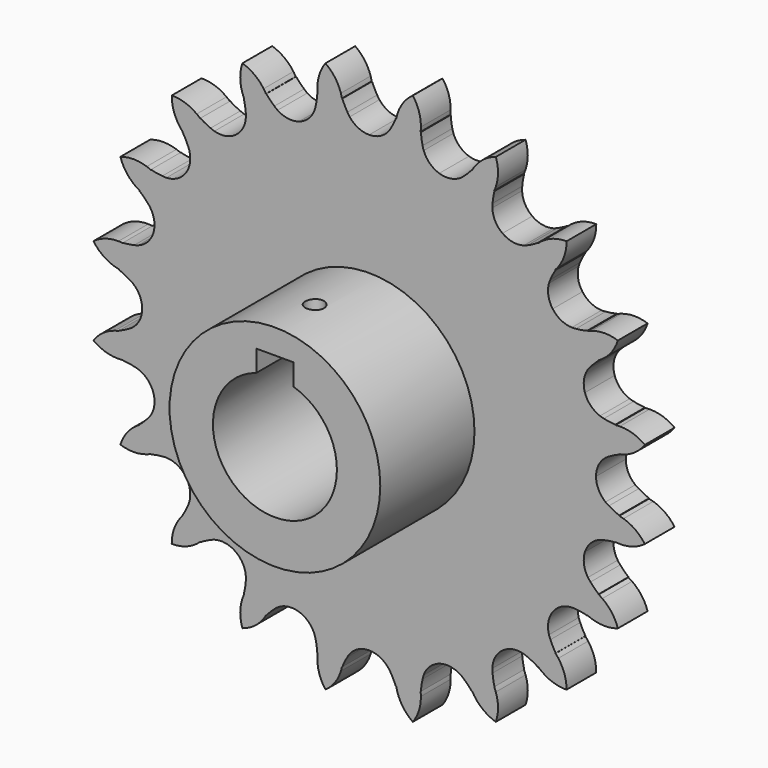
from build123d import *

# Parameters (mm, degrees)
F0_R     = 17
F1_DEPTH = 25
F2_DEPTH = 6
F3_R     = 1.5
F4_DEPTH = 5


with BuildPart() as f1:
    # F0 (on Front) → F1 (new body)
    with BuildSketch(Plane.XZ):
        Circle(F0_R)
        with BuildLine():
            ThreePointArc((3, 9.5393920142), (8.0622577483, 5.9160797831), (10, 0))
            ThreePointArc((10, 0), (-5.9160797831, -8.0622577483), (-3, 9.5393920142))
            Line((-3, 9.5393920142), (-3, 13))
            Line((-3, 13), (3, 13))
            Line((3, 13), (3, 9.5393920142))
        make_face(mode=Mode.SUBTRACT)
    extrude(amount=F1_DEPTH)

    # F0 (on Front) → F2 (join)
    with BuildSketch(Plane.XZ):
        with BuildLine():
            ThreePointArc((40.3614609672, 4.3210011576), (40.3579937377, 4.3532658862), (40.354500716, 4.3855278326))
            ThreePointArc((40.354500716, 4.3855278326), (40.0923438903, 6.3500034484), (39.7346134974, 8.2993416982))
            ThreePointArc((39.7346134974, 8.2993416982), (39.7279660687, 8.3311040356), (39.7212932505, 8.3628610488))
            ThreePointArc((39.7212932505, 8.3628610488), (38.7963326625, 8.4541792517), (37.8833436917, 8.6283695002))
            ThreePointArc((37.8833436917, 8.6283695002), (37.5598905524, 8.7020736744), (37.2436964185, 8.8024505062))
            ThreePointArc((37.2436964185, 8.8024505062), (35.741473668, 9.7780053671), (34.8189399068, 11.3133593777))
            ThreePointArc((34.8189399068, 11.3133593777), (34.662826953, 13.0977386042), (35.3047339275, 14.769963444))
            ThreePointArc((35.3047339275, 14.769963444), (35.5015403339, 15.0370242555), (35.7198971939, 15.2867731701))
            ThreePointArc((35.7198971939, 15.2867731701), (36.3561343278, 15.9643374939), (37.0507676696, 16.5818936646))
            ThreePointArc((37.0507676696, 16.5818936646), (37.037499789, 16.611507812), (37.0242082383, 16.6411113433))
            ThreePointArc((37.0242082383, 16.6411113433), (36.1678259305, 18.4284277645), (35.2252254623, 20.1718138387))
            ThreePointArc((35.2252254623, 20.1718138387), (35.2090882799, 20.1999674482), (35.1929285959, 20.2281081482))
            ThreePointArc((35.1929285959, 20.2281081482), (34.2850199248, 20.0291283794), (33.3628880678, 19.9126640427))
            ThreePointArc((33.3628880678, 19.9126640427), (33.0324900095, 19.8828083609), (32.7007533711, 19.88056304))
            ThreePointArc((32.7007533711, 19.88056304), (30.9705916044, 20.3441584881), (29.6187593777, 21.5192883146))
            ThreePointArc((29.6187593777, 21.5192883146), (28.9188836303, 23.1680922498), (29.0126275473, 24.9568327443))
            ThreePointArc((29.0126275473, 24.9568327443), (29.1172752333, 25.2716391935), (29.247768289, 25.5766405068))
            ThreePointArc((29.247768289, 25.5766405068), (29.6434868702, 26.417650559), (30.1132870847, 27.2196348867))
            ThreePointArc((30.1132870847, 27.2196348867), (30.0915173055, 27.2436996141), (30.0697282953, 27.2677469303))
            ThreePointArc((30.0697282953, 27.2677469303), (28.7029491726, 28.7029491726), (27.2677469303, 30.0697282953))
            ThreePointArc((27.2677469303, 30.0697282953), (27.2436996141, 30.0915173055), (27.2196348867, 30.1132870847))
            ThreePointArc((27.2196348867, 30.1132870847), (26.417650559, 29.6434868702), (25.5766405068, 29.247768289))
            ThreePointArc((25.5766405068, 29.247768289), (25.2716391935, 29.1172752333), (24.9568327443, 29.0126275473))
            ThreePointArc((24.9568327443, 29.0126275473), (23.1680922498, 28.9188836303), (21.5192883146, 29.6187593777))
            ThreePointArc((21.5192883146, 29.6187593777), (20.3441584881, 30.9705916044), (19.88056304, 32.7007533711))
            ThreePointArc((19.88056304, 32.7007533711), (19.8828083609, 33.0324900095), (19.9126640427, 33.3628880678))
            ThreePointArc((19.9126640427, 33.3628880678), (20.0291283794, 34.2850199248), (20.2281081482, 35.1929285959))
            ThreePointArc((20.2281081482, 35.1929285959), (20.1999674482, 35.2090882799), (20.1718138387, 35.2252254623))
            ThreePointArc((20.1718138387, 35.2252254623), (18.4284277645, 36.1678259305), (16.6411113433, 37.0242082383))
            ThreePointArc((16.6411113433, 37.0242082383), (16.611507812, 37.037499789), (16.5818936646, 37.0507676696))
            ThreePointArc((16.5818936646, 37.0507676696), (15.9643374939, 36.3561343278), (15.2867731701, 35.7198971939))
            ThreePointArc((15.2867731701, 35.7198971939), (15.0370242555, 35.5015403339), (14.769963444, 35.3047339275))
            ThreePointArc((14.769963444, 35.3047339275), (13.0977386042, 34.662826953), (11.3133593777, 34.8189399068))
            ThreePointArc((11.3133593777, 34.8189399068), (9.7780053671, 35.741473668), (8.8024505062, 37.2436964185))
            ThreePointArc((8.8024505062, 37.2436964185), (8.7020736744, 37.5598905524), (8.6283695002, 37.8833436917))
            ThreePointArc((8.6283695002, 37.8833436917), (8.4541792517, 38.7963326625), (8.3628610488, 39.7212932505))
            ThreePointArc((8.3628610488, 39.7212932505), (8.3311040356, 39.7279660687), (8.2993416982, 39.7346134974))
            ThreePointArc((8.2993416982, 39.7346134974), (6.3500034484, 40.0923438903), (4.3855278326, 40.354500716))
            ThreePointArc((4.3855278326, 40.354500716), (4.3532658862, 40.3579937377), (4.3210011576, 40.3614609672))
            ThreePointArc((4.3210011576, 40.3614609672), (3.9483238448, 39.5099900493), (3.5005299663, 38.6955136864))
            ThreePointArc((3.5005299663, 38.6955136864), (3.3304806142, 38.4106673129), (3.1373072133, 38.1409669683))
            ThreePointArc((3.1373072133, 38.1409669683), (1.7452870467, 37.0137312635), (0, 36.6108))
            ThreePointArc((0, 36.6108), (-1.7452870467, 37.0137312635), (-3.1373072133, 38.1409669683))
            ThreePointArc((-3.1373072133, 38.1409669683), (-3.3304806142, 38.4106673129), (-3.5005299663, 38.6955136864))
            ThreePointArc((-3.5005299663, 38.6955136864), (-3.9483238448, 39.5099900493), (-4.3210011576, 40.3614609672))
            ThreePointArc((-4.3210011576, 40.3614609672), (-4.3532658862, 40.3579937377), (-4.3855278326, 40.354500716))
            ThreePointArc((-4.3855278326, 40.354500716), (-6.3500034484, 40.0923438903), (-8.2993416982, 39.7346134974))
            ThreePointArc((-8.2993416982, 39.7346134974), (-8.3311040356, 39.7279660687), (-8.3628610488, 39.7212932505))
            ThreePointArc((-8.3628610488, 39.7212932505), (-8.4541792517, 38.7963326625), (-8.6283695002, 37.8833436917))
            ThreePointArc((-8.6283695002, 37.8833436917), (-8.7020736744, 37.5598905524), (-8.8024505062, 37.2436964185))
            ThreePointArc((-8.8024505062, 37.2436964185), (-9.7780053671, 35.741473668), (-11.3133593777, 34.8189399068))
            ThreePointArc((-11.3133593777, 34.8189399068), (-13.0977386042, 34.662826953), (-14.769963444, 35.3047339275))
            ThreePointArc((-14.769963444, 35.3047339275), (-15.0370242555, 35.5015403339), (-15.2867731701, 35.7198971939))
            ThreePointArc((-15.2867731701, 35.7198971939), (-15.9643374939, 36.3561343278), (-16.5818936646, 37.0507676696))
            ThreePointArc((-16.5818936646, 37.0507676696), (-16.611507812, 37.037499789), (-16.6411113433, 37.0242082383))
            ThreePointArc((-16.6411113433, 37.0242082383), (-18.4284277645, 36.1678259305), (-20.1718138387, 35.2252254623))
            ThreePointArc((-20.1718138387, 35.2252254623), (-20.1999674482, 35.2090882799), (-20.2281081482, 35.1929285959))
            ThreePointArc((-20.2281081482, 35.1929285959), (-20.0291283794, 34.2850199248), (-19.9126640427, 33.3628880678))
            ThreePointArc((-19.9126640427, 33.3628880678), (-19.8828083609, 33.0324900095), (-19.88056304, 32.7007533711))
            ThreePointArc((-19.88056304, 32.7007533711), (-20.3441584881, 30.9705916044), (-21.5192883146, 29.6187593777))
            ThreePointArc((-21.5192883146, 29.6187593777), (-23.1680922498, 28.9188836303), (-24.9568327443, 29.0126275473))
            ThreePointArc((-24.9568327443, 29.0126275473), (-25.2716391935, 29.1172752333), (-25.5766405068, 29.247768289))
            ThreePointArc((-25.5766405068, 29.247768289), (-26.417650559, 29.6434868702), (-27.2196348867, 30.1132870847))
            ThreePointArc((-27.2196348867, 30.1132870847), (-27.2436996141, 30.0915173055), (-27.2677469303, 30.0697282953))
            ThreePointArc((-27.2677469303, 30.0697282953), (-28.7029491726, 28.7029491726), (-30.0697282953, 27.2677469303))
            ThreePointArc((-30.0697282953, 27.2677469303), (-30.0915173055, 27.2436996141), (-30.1132870847, 27.2196348867))
            ThreePointArc((-30.1132870847, 27.2196348867), (-29.6434868702, 26.417650559), (-29.247768289, 25.5766405068))
            ThreePointArc((-29.247768289, 25.5766405068), (-29.1172752333, 25.2716391935), (-29.0126275473, 24.9568327443))
            ThreePointArc((-29.0126275473, 24.9568327443), (-28.9188836303, 23.1680922498), (-29.6187593777, 21.5192883146))
            ThreePointArc((-29.6187593777, 21.5192883146), (-30.9705916044, 20.3441584881), (-32.7007533711, 19.88056304))
            ThreePointArc((-32.7007533711, 19.88056304), (-33.0324900095, 19.8828083609), (-33.3628880678, 19.9126640427))
            ThreePointArc((-33.3628880678, 19.9126640427), (-34.2850199248, 20.0291283794), (-35.1929285959, 20.2281081482))
            ThreePointArc((-35.1929285959, 20.2281081482), (-35.2090882799, 20.1999674482), (-35.2252254623, 20.1718138387))
            ThreePointArc((-35.2252254623, 20.1718138387), (-36.1678259305, 18.4284277645), (-37.0242082383, 16.6411113433))
            ThreePointArc((-37.0242082383, 16.6411113433), (-37.037499789, 16.611507812), (-37.0507676696, 16.5818936646))
            ThreePointArc((-37.0507676696, 16.5818936646), (-36.3561343278, 15.9643374939), (-35.7198971939, 15.2867731701))
            ThreePointArc((-35.7198971939, 15.2867731701), (-35.5015403339, 15.0370242555), (-35.3047339275, 14.769963444))
            ThreePointArc((-35.3047339275, 14.769963444), (-34.662826953, 13.0977386042), (-34.8189399068, 11.3133593777))
            ThreePointArc((-34.8189399068, 11.3133593777), (-35.741473668, 9.7780053671), (-37.2436964185, 8.8024505062))
            ThreePointArc((-37.2436964185, 8.8024505062), (-37.5598905524, 8.7020736744), (-37.8833436917, 8.6283695002))
            ThreePointArc((-37.8833436917, 8.6283695002), (-38.7963326625, 8.4541792517), (-39.7212932505, 8.3628610488))
            ThreePointArc((-39.7212932505, 8.3628610488), (-39.7279660687, 8.3311040356), (-39.7346134974, 8.2993416982))
            ThreePointArc((-39.7346134974, 8.2993416982), (-40.0923438903, 6.3500034484), (-40.354500716, 4.3855278326))
            ThreePointArc((-40.354500716, 4.3855278326), (-40.3579937377, 4.3532658862), (-40.3614609672, 4.3210011576))
            ThreePointArc((-40.3614609672, 4.3210011576), (-39.5099900493, 3.9483238448), (-38.6955136864, 3.5005299663))
            ThreePointArc((-38.6955136864, 3.5005299663), (-38.4106673129, 3.3304806142), (-38.1409669683, 3.1373072133))
            ThreePointArc((-38.1409669683, 3.1373072133), (-37.0137312635, 1.7452870467), (-36.6108, 0))
            ThreePointArc((-36.6108, 0), (-37.0137312635, -1.7452870467), (-38.1409669683, -3.1373072133))
            ThreePointArc((-38.1409669683, -3.1373072133), (-38.4106673129, -3.3304806142), (-38.6955136864, -3.5005299663))
            ThreePointArc((-38.6955136864, -3.5005299663), (-39.5099900493, -3.9483238448), (-40.3614609672, -4.3210011576))
            ThreePointArc((-40.3614609672, -4.3210011576), (-40.3579937377, -4.3532658862), (-40.354500716, -4.3855278326))
            ThreePointArc((-40.354500716, -4.3855278326), (-40.0923438903, -6.3500034484), (-39.7346134974, -8.2993416982))
            ThreePointArc((-39.7346134974, -8.2993416982), (-39.7279660687, -8.3311040356), (-39.7212932505, -8.3628610488))
            ThreePointArc((-39.7212932505, -8.3628610488), (-38.7963326625, -8.4541792517), (-37.8833436917, -8.6283695002))
            ThreePointArc((-37.8833436917, -8.6283695002), (-37.5598905524, -8.7020736744), (-37.2436964185, -8.8024505062))
            ThreePointArc((-37.2436964185, -8.8024505062), (-35.741473668, -9.7780053671), (-34.8189399068, -11.3133593777))
            ThreePointArc((-34.8189399068, -11.3133593777), (-34.662826953, -13.0977386042), (-35.3047339275, -14.769963444))
            ThreePointArc((-35.3047339275, -14.769963444), (-35.5015403339, -15.0370242555), (-35.7198971939, -15.2867731701))
            ThreePointArc((-35.7198971939, -15.2867731701), (-36.3561343278, -15.9643374939), (-37.0507676696, -16.5818936646))
            ThreePointArc((-37.0507676696, -16.5818936646), (-37.037499789, -16.611507812), (-37.0242082383, -16.6411113433))
            ThreePointArc((-37.0242082383, -16.6411113433), (-36.1678259305, -18.4284277645), (-35.2252254623, -20.1718138387))
            ThreePointArc((-35.2252254623, -20.1718138387), (-35.2090882799, -20.1999674482), (-35.1929285959, -20.2281081482))
            ThreePointArc((-35.1929285959, -20.2281081482), (-34.2850199248, -20.0291283794), (-33.3628880678, -19.9126640427))
            ThreePointArc((-33.3628880678, -19.9126640427), (-33.0324900095, -19.8828083609), (-32.7007533711, -19.88056304))
            ThreePointArc((-32.7007533711, -19.88056304), (-30.9705916044, -20.3441584881), (-29.6187593777, -21.5192883146))
            ThreePointArc((-29.6187593777, -21.5192883146), (-28.9188836303, -23.1680922498), (-29.0126275473, -24.9568327443))
            ThreePointArc((-29.0126275473, -24.9568327443), (-29.1172752333, -25.2716391935), (-29.247768289, -25.5766405068))
            ThreePointArc((-29.247768289, -25.5766405068), (-29.6434868702, -26.417650559), (-30.1132870847, -27.2196348867))
            ThreePointArc((-30.1132870847, -27.2196348867), (-30.0915173055, -27.2436996141), (-30.0697282953, -27.2677469303))
            ThreePointArc((-30.0697282953, -27.2677469303), (-28.7029491726, -28.7029491726), (-27.2677469303, -30.0697282953))
            ThreePointArc((-27.2677469303, -30.0697282953), (-27.2436996141, -30.0915173055), (-27.2196348867, -30.1132870847))
            ThreePointArc((-27.2196348867, -30.1132870847), (-26.417650559, -29.6434868702), (-25.5766405068, -29.247768289))
            ThreePointArc((-25.5766405068, -29.247768289), (-25.2716391935, -29.1172752333), (-24.9568327443, -29.0126275473))
            ThreePointArc((-24.9568327443, -29.0126275473), (-23.1680922498, -28.9188836303), (-21.5192883146, -29.6187593777))
            ThreePointArc((-21.5192883146, -29.6187593777), (-20.3441584881, -30.9705916044), (-19.88056304, -32.7007533711))
            ThreePointArc((-19.88056304, -32.7007533711), (-19.8828083609, -33.0324900095), (-19.9126640427, -33.3628880678))
            ThreePointArc((-19.9126640427, -33.3628880678), (-20.0291283794, -34.2850199248), (-20.2281081482, -35.1929285959))
            ThreePointArc((-20.2281081482, -35.1929285959), (-20.1999674482, -35.2090882799), (-20.1718138387, -35.2252254623))
            ThreePointArc((-20.1718138387, -35.2252254623), (-18.4284277645, -36.1678259305), (-16.6411113433, -37.0242082383))
            ThreePointArc((-16.6411113433, -37.0242082383), (-16.611507812, -37.037499789), (-16.5818936646, -37.0507676696))
            ThreePointArc((-16.5818936646, -37.0507676696), (-15.9643374939, -36.3561343278), (-15.2867731701, -35.7198971939))
            ThreePointArc((-15.2867731701, -35.7198971939), (-15.0370242555, -35.5015403339), (-14.769963444, -35.3047339275))
            ThreePointArc((-14.769963444, -35.3047339275), (-13.0977386042, -34.662826953), (-11.3133593777, -34.8189399068))
            ThreePointArc((-11.3133593777, -34.8189399068), (-9.7780053671, -35.741473668), (-8.8024505062, -37.2436964185))
            ThreePointArc((-8.8024505062, -37.2436964185), (-8.7020736744, -37.5598905524), (-8.6283695002, -37.8833436917))
            ThreePointArc((-8.6283695002, -37.8833436917), (-8.4541792517, -38.7963326625), (-8.3628610488, -39.7212932505))
            ThreePointArc((-8.3628610488, -39.7212932505), (-8.3311040356, -39.7279660687), (-8.2993416982, -39.7346134974))
            ThreePointArc((-8.2993416982, -39.7346134974), (-6.3500034484, -40.0923438903), (-4.3855278326, -40.354500716))
            ThreePointArc((-4.3855278326, -40.354500716), (-4.3532658862, -40.3579937377), (-4.3210011576, -40.3614609672))
            ThreePointArc((-4.3210011576, -40.3614609672), (-3.9483238448, -39.5099900493), (-3.5005299663, -38.6955136864))
            ThreePointArc((-3.5005299663, -38.6955136864), (-3.3304806142, -38.4106673129), (-3.1373072133, -38.1409669683))
            ThreePointArc((-3.1373072133, -38.1409669683), (-1.7452870467, -37.0137312635), (0, -36.6108))
            ThreePointArc((0, -36.6108), (1.7452870467, -37.0137312635), (3.1373072133, -38.1409669683))
            ThreePointArc((3.1373072133, -38.1409669683), (3.3304806142, -38.4106673129), (3.5005299663, -38.6955136864))
            ThreePointArc((3.5005299663, -38.6955136864), (3.9483238448, -39.5099900493), (4.3210011576, -40.3614609672))
            ThreePointArc((4.3210011576, -40.3614609672), (4.3532658862, -40.3579937377), (4.3855278326, -40.354500716))
            ThreePointArc((4.3855278326, -40.354500716), (6.3500034484, -40.0923438903), (8.2993416982, -39.7346134974))
            ThreePointArc((8.2993416982, -39.7346134974), (8.3311040356, -39.7279660687), (8.3628610488, -39.7212932505))
            ThreePointArc((8.3628610488, -39.7212932505), (8.4541792517, -38.7963326625), (8.6283695002, -37.8833436917))
            ThreePointArc((8.6283695002, -37.8833436917), (8.7020736744, -37.5598905524), (8.8024505062, -37.2436964185))
            ThreePointArc((8.8024505062, -37.2436964185), (9.7780053671, -35.741473668), (11.3133593777, -34.8189399068))
            ThreePointArc((11.3133593777, -34.8189399068), (13.0977386042, -34.662826953), (14.769963444, -35.3047339275))
            ThreePointArc((14.769963444, -35.3047339275), (15.0370242555, -35.5015403339), (15.2867731701, -35.7198971939))
            ThreePointArc((15.2867731701, -35.7198971939), (15.9643374939, -36.3561343278), (16.5818936646, -37.0507676696))
            ThreePointArc((16.5818936646, -37.0507676696), (16.611507812, -37.037499789), (16.6411113433, -37.0242082383))
            ThreePointArc((16.6411113433, -37.0242082383), (18.4284277645, -36.1678259305), (20.1718138387, -35.2252254623))
            ThreePointArc((20.1718138387, -35.2252254623), (20.1999674482, -35.2090882799), (20.2281081482, -35.1929285959))
            ThreePointArc((20.2281081482, -35.1929285959), (20.0291283794, -34.2850199248), (19.9126640427, -33.3628880678))
            ThreePointArc((19.9126640427, -33.3628880678), (19.8828083609, -33.0324900095), (19.88056304, -32.7007533711))
            ThreePointArc((19.88056304, -32.7007533711), (20.3441584881, -30.9705916044), (21.5192883146, -29.6187593777))
            ThreePointArc((21.5192883146, -29.6187593777), (23.1680922498, -28.9188836303), (24.9568327443, -29.0126275473))
            ThreePointArc((24.9568327443, -29.0126275473), (25.2716391935, -29.1172752333), (25.5766405068, -29.247768289))
            ThreePointArc((25.5766405068, -29.247768289), (26.417650559, -29.6434868702), (27.2196348867, -30.1132870847))
            ThreePointArc((27.2196348867, -30.1132870847), (27.2436996141, -30.0915173055), (27.2677469303, -30.0697282953))
            ThreePointArc((27.2677469303, -30.0697282953), (28.7029491726, -28.7029491726), (30.0697282953, -27.2677469303))
            ThreePointArc((30.0697282953, -27.2677469303), (30.0915173055, -27.2436996141), (30.1132870847, -27.2196348867))
            ThreePointArc((30.1132870847, -27.2196348867), (29.6434868702, -26.417650559), (29.247768289, -25.5766405068))
            ThreePointArc((29.247768289, -25.5766405068), (29.1172752333, -25.2716391935), (29.0126275473, -24.9568327443))
            ThreePointArc((29.0126275473, -24.9568327443), (28.9188836303, -23.1680922498), (29.6187593777, -21.5192883146))
            ThreePointArc((29.6187593777, -21.5192883146), (30.9705916044, -20.3441584881), (32.7007533711, -19.88056304))
            ThreePointArc((32.7007533711, -19.88056304), (33.0324900095, -19.8828083609), (33.3628880678, -19.9126640427))
            ThreePointArc((33.3628880678, -19.9126640427), (34.2850199248, -20.0291283794), (35.1929285959, -20.2281081482))
            ThreePointArc((35.1929285959, -20.2281081482), (35.2090882799, -20.1999674482), (35.2252254623, -20.1718138387))
            ThreePointArc((35.2252254623, -20.1718138387), (36.1678259305, -18.4284277645), (37.0242082383, -16.6411113433))
            ThreePointArc((37.0242082383, -16.6411113433), (37.037499789, -16.611507812), (37.0507676696, -16.5818936646))
            ThreePointArc((37.0507676696, -16.5818936646), (36.3561343278, -15.9643374939), (35.7198971939, -15.2867731701))
            ThreePointArc((35.7198971939, -15.2867731701), (35.5015403339, -15.0370242555), (35.3047339275, -14.769963444))
            ThreePointArc((35.3047339275, -14.769963444), (34.662826953, -13.0977386042), (34.8189399068, -11.3133593777))
            ThreePointArc((34.8189399068, -11.3133593777), (35.741473668, -9.7780053671), (37.2436964185, -8.8024505062))
            ThreePointArc((37.2436964185, -8.8024505062), (37.5598905524, -8.7020736744), (37.8833436917, -8.6283695002))
            ThreePointArc((37.8833436917, -8.6283695002), (38.7963326625, -8.4541792517), (39.7212932505, -8.3628610488))
            ThreePointArc((39.7212932505, -8.3628610488), (39.7279660687, -8.3311040356), (39.7346134974, -8.2993416982))
            ThreePointArc((39.7346134974, -8.2993416982), (40.0923438903, -6.3500034484), (40.354500716, -4.3855278326))
            ThreePointArc((40.354500716, -4.3855278326), (40.3579937377, -4.3532658862), (40.3614609672, -4.3210011576))
            ThreePointArc((40.3614609672, -4.3210011576), (39.5099900493, -3.9483238448), (38.6955136864, -3.5005299663))
            ThreePointArc((38.6955136864, -3.5005299663), (38.4106673129, -3.3304806142), (38.1409669683, -3.1373072133))
            ThreePointArc((38.1409669683, -3.1373072133), (37.0137312635, -1.7452870467), (36.6108, 0))
            ThreePointArc((36.6108, 0), (37.0137312635, 1.7452870467), (38.1409669683, 3.1373072133))
            ThreePointArc((38.1409669683, 3.1373072133), (38.4106673129, 3.3304806142), (38.6955136864, 3.5005299663))
            ThreePointArc((38.6955136864, 3.5005299663), (39.5099900493, 3.9483238448), (40.3614609672, 4.3210011576))
        make_face()
        Circle(F0_R, mode=Mode.SUBTRACT)
        with BuildLine():
            ThreePointArc((-35.883783752, -20.4386533925), (-35.5508917772, -20.3141500566), (-35.2252254623, -20.1718138387))
            ThreePointArc((-35.2252254623, -20.1718138387), (-36.1678259305, -18.4284277645), (-37.0242082383, -16.6411113433))
            ThreePointArc((-37.0242082383, -16.6411113433), (-37.3307825145, -16.8209177968), (-37.6271768226, -17.017051837))
            ThreePointArc((-37.6271768226, -17.017051837), (-39.1619868076, -18.5239036842), (-40.1274078513, -20.4459355225))
            ThreePointArc((-40.1274078513, -20.4459355225), (-38.0049911786, -20.7946354604), (-35.883783752, -20.4386533925))
        make_face()
        with BuildLine():
            ThreePointArc((-27.8116151263, -30.5270134951), (-27.533489691, -30.3057345086), (-27.2677469303, -30.0697282953))
            ThreePointArc((-27.2677469303, -30.0697282953), (-28.7029491726, -28.7029491726), (-30.0697282953, -27.2677469303))
            ThreePointArc((-30.0697282953, -27.2677469303), (-30.3057345086, -27.533489691), (-30.5270134951, -27.8116151263))
            ThreePointArc((-30.5270134951, -27.8116151263), (-31.5210617038, -29.7189987631), (-31.8452911767, -31.8452911767))
            ThreePointArc((-31.8452911767, -31.8452911767), (-29.7189987631, -31.5210617038), (-27.8116151263, -30.5270134951))
        make_face()
        with BuildLine():
            ThreePointArc((-17.017051837, -37.6271768226), (-16.8209177968, -37.3307825145), (-16.6411113433, -37.0242082383))
            ThreePointArc((-16.6411113433, -37.0242082383), (-18.4284277645, -36.1678259305), (-20.1718138387, -35.2252254623))
            ThreePointArc((-20.1718138387, -35.2252254623), (-20.3141500566, -35.5508917772), (-20.4386533925, -35.883783752))
            ThreePointArc((-20.4386533925, -35.883783752), (-20.7946354604, -38.0049911786), (-20.4459355225, -40.1274078513))
            ThreePointArc((-20.4459355225, -40.1274078513), (-18.5239036842, -39.1619868076), (-17.017051837, -37.6271768226))
        make_face()
        with BuildLine():
            ThreePointArc((8.3496154914, -40.4433976071), (8.33407506, -40.0883248785), (8.2993416982, -39.7346134974))
            ThreePointArc((8.2993416982, -39.7346134974), (6.3500034484, -40.0923438903), (4.3855278326, -40.354500716))
            ThreePointArc((4.3855278326, -40.354500716), (4.4617972704, -40.701633429), (4.5567409492, -41.0441299187))
            ThreePointArc((4.5567409492, -41.0441299187), (5.515559849, -42.969463785), (7.0451892441, -44.4815742613))
            ThreePointArc((7.0451892441, -44.4815742613), (8.0326854133, -42.5707902612), (8.3496154914, -40.4433976071))
        make_face()
        with BuildLine():
            ThreePointArc((20.4386533925, -35.883783752), (20.3141500566, -35.5508917772), (20.1718138387, -35.2252254623))
            ThreePointArc((20.1718138387, -35.2252254623), (18.4284277645, -36.1678259305), (16.6411113433, -37.0242082383))
            ThreePointArc((16.6411113433, -37.0242082383), (16.8209177968, -37.3307825145), (17.017051837, -37.6271768226))
            ThreePointArc((17.017051837, -37.6271768226), (18.5239036842, -39.1619868076), (20.4459355225, -40.1274078513))
            ThreePointArc((20.4459355225, -40.1274078513), (20.7946354604, -38.0049911786), (20.4386533925, -35.883783752))
        make_face()
        with BuildLine():
            ThreePointArc((30.5270134951, -27.8116151263), (30.3057345086, -27.533489691), (30.0697282953, -27.2677469303))
            ThreePointArc((30.0697282953, -27.2677469303), (28.7029491726, -28.7029491726), (27.2677469303, -30.0697282953))
            ThreePointArc((27.2677469303, -30.0697282953), (27.533489691, -30.3057345086), (27.8116151263, -30.5270134951))
            ThreePointArc((27.8116151263, -30.5270134951), (29.7189987631, -31.5210617038), (31.8452911767, -31.8452911767))
            ThreePointArc((31.8452911767, -31.8452911767), (31.5210617038, -29.7189987631), (30.5270134951, -27.8116151263))
        make_face()
        with BuildLine():
            ThreePointArc((37.6271768226, -17.017051837), (37.3307825145, -16.8209177968), (37.0242082383, -16.6411113433))
            ThreePointArc((37.0242082383, -16.6411113433), (36.1678259305, -18.4284277645), (35.2252254623, -20.1718138387))
            ThreePointArc((35.2252254623, -20.1718138387), (35.5508917772, -20.3141500566), (35.883783752, -20.4386533925))
            ThreePointArc((35.883783752, -20.4386533925), (38.0049911786, -20.7946354604), (40.1274078513, -20.4459355225))
            ThreePointArc((40.1274078513, -20.4459355225), (39.1619868076, -18.5239036842), (37.6271768226, -17.017051837))
        make_face()
        with BuildLine():
            ThreePointArc((-4.5567409492, -41.0441299187), (-4.4617972704, -40.701633429), (-4.3855278326, -40.354500716))
            ThreePointArc((-4.3855278326, -40.354500716), (-6.3500034484, -40.0923438903), (-8.2993416982, -39.7346134974))
            ThreePointArc((-8.2993416982, -39.7346134974), (-8.33407506, -40.0883248785), (-8.3496154914, -40.4433976071))
            ThreePointArc((-8.3496154914, -40.4433976071), (-8.0326854133, -42.5707902612), (-7.0451892441, -44.4815742613))
            ThreePointArc((-7.0451892441, -44.4815742613), (-5.515559849, -42.969463785), (-4.5567409492, -41.0441299187))
        make_face()
        with BuildLine():
            ThreePointArc((41.0441299187, -4.5567409492), (40.701633429, -4.4617972704), (40.354500716, -4.3855278326))
            ThreePointArc((40.354500716, -4.3855278326), (40.0923438903, -6.3500034484), (39.7346134974, -8.2993416982))
            ThreePointArc((39.7346134974, -8.2993416982), (40.0883248785, -8.33407506), (40.4433976071, -8.3496154914))
            ThreePointArc((40.4433976071, -8.3496154914), (42.5707902612, -8.0326854133), (44.4815742613, -7.0451892441))
            ThreePointArc((44.4815742613, -7.0451892441), (42.969463785, -5.515559849), (41.0441299187, -4.5567409492))
        make_face()
        with BuildLine():
            ThreePointArc((39.7346134974, 8.2993416982), (40.0923438903, 6.3500034484), (40.354500716, 4.3855278326))
            ThreePointArc((40.354500716, 4.3855278326), (40.701633429, 4.4617972704), (41.0441299187, 4.5567409492))
            ThreePointArc((41.0441299187, 4.5567409492), (42.969463785, 5.515559849), (44.4815742613, 7.0451892441))
            ThreePointArc((44.4815742613, 7.0451892441), (42.5707902612, 8.0326854133), (40.4433976071, 8.3496154914))
            ThreePointArc((40.4433976071, 8.3496154914), (40.0883248785, 8.33407506), (39.7346134974, 8.2993416982))
        make_face()
        with BuildLine():
            ThreePointArc((35.2252254623, 20.1718138387), (36.1678259305, 18.4284277645), (37.0242082383, 16.6411113433))
            ThreePointArc((37.0242082383, 16.6411113433), (37.3307825145, 16.8209177968), (37.6271768226, 17.017051837))
            ThreePointArc((37.6271768226, 17.017051837), (39.1619868076, 18.5239036842), (40.1274078513, 20.4459355225))
            ThreePointArc((40.1274078513, 20.4459355225), (38.0049911786, 20.7946354604), (35.883783752, 20.4386533925))
            ThreePointArc((35.883783752, 20.4386533925), (35.5508917772, 20.3141500566), (35.2252254623, 20.1718138387))
        make_face()
        with BuildLine():
            ThreePointArc((27.2677469303, 30.0697282953), (28.7029491726, 28.7029491726), (30.0697282953, 27.2677469303))
            ThreePointArc((30.0697282953, 27.2677469303), (30.3057345086, 27.533489691), (30.5270134951, 27.8116151263))
            ThreePointArc((30.5270134951, 27.8116151263), (31.5210617038, 29.7189987631), (31.8452911767, 31.8452911767))
            ThreePointArc((31.8452911767, 31.8452911767), (29.7189987631, 31.5210617038), (27.8116151263, 30.5270134951))
            ThreePointArc((27.8116151263, 30.5270134951), (27.533489691, 30.3057345086), (27.2677469303, 30.0697282953))
        make_face()
        with BuildLine():
            ThreePointArc((16.6411113433, 37.0242082383), (18.4284277645, 36.1678259305), (20.1718138387, 35.2252254623))
            ThreePointArc((20.1718138387, 35.2252254623), (20.3141500566, 35.5508917772), (20.4386533925, 35.883783752))
            ThreePointArc((20.4386533925, 35.883783752), (20.7946354604, 38.0049911786), (20.4459355225, 40.1274078513))
            ThreePointArc((20.4459355225, 40.1274078513), (18.5239036842, 39.1619868076), (17.017051837, 37.6271768226))
            ThreePointArc((17.017051837, 37.6271768226), (16.8209177968, 37.3307825145), (16.6411113433, 37.0242082383))
        make_face()
        with BuildLine():
            ThreePointArc((4.3855278326, 40.354500716), (6.3500034484, 40.0923438903), (8.2993416982, 39.7346134974))
            ThreePointArc((8.2993416982, 39.7346134974), (8.33407506, 40.0883248785), (8.3496154914, 40.4433976071))
            ThreePointArc((8.3496154914, 40.4433976071), (8.0326854133, 42.5707902612), (7.0451892441, 44.4815742613))
            ThreePointArc((7.0451892441, 44.4815742613), (5.515559849, 42.969463785), (4.5567409492, 41.0441299187))
            ThreePointArc((4.5567409492, 41.0441299187), (4.4617972704, 40.701633429), (4.3855278326, 40.354500716))
        make_face()
        with BuildLine():
            ThreePointArc((-20.1718138387, 35.2252254623), (-18.4284277645, 36.1678259305), (-16.6411113433, 37.0242082383))
            ThreePointArc((-16.6411113433, 37.0242082383), (-16.8209177968, 37.3307825145), (-17.017051837, 37.6271768226))
            ThreePointArc((-17.017051837, 37.6271768226), (-18.5239036842, 39.1619868076), (-20.4459355225, 40.1274078513))
            ThreePointArc((-20.4459355225, 40.1274078513), (-20.7946354604, 38.0049911786), (-20.4386533925, 35.883783752))
            ThreePointArc((-20.4386533925, 35.883783752), (-20.3141500566, 35.5508917772), (-20.1718138387, 35.2252254623))
        make_face()
        with BuildLine():
            ThreePointArc((-30.0697282953, 27.2677469303), (-28.7029491726, 28.7029491726), (-27.2677469303, 30.0697282953))
            ThreePointArc((-27.2677469303, 30.0697282953), (-27.533489691, 30.3057345086), (-27.8116151263, 30.5270134951))
            ThreePointArc((-27.8116151263, 30.5270134951), (-29.7189987631, 31.5210617038), (-31.8452911767, 31.8452911767))
            ThreePointArc((-31.8452911767, 31.8452911767), (-31.5210617038, 29.7189987631), (-30.5270134951, 27.8116151263))
            ThreePointArc((-30.5270134951, 27.8116151263), (-30.3057345086, 27.533489691), (-30.0697282953, 27.2677469303))
        make_face()
        with BuildLine():
            ThreePointArc((-37.0242082383, 16.6411113433), (-36.1678259305, 18.4284277645), (-35.2252254623, 20.1718138387))
            ThreePointArc((-35.2252254623, 20.1718138387), (-35.5508917772, 20.3141500566), (-35.883783752, 20.4386533925))
            ThreePointArc((-35.883783752, 20.4386533925), (-38.0049911786, 20.7946354604), (-40.1274078513, 20.4459355225))
            ThreePointArc((-40.1274078513, 20.4459355225), (-39.1619868076, 18.5239036842), (-37.6271768226, 17.017051837))
            ThreePointArc((-37.6271768226, 17.017051837), (-37.3307825145, 16.8209177968), (-37.0242082383, 16.6411113433))
        make_face()
        with BuildLine():
            ThreePointArc((-40.354500716, 4.3855278326), (-40.0923438903, 6.3500034484), (-39.7346134974, 8.2993416982))
            ThreePointArc((-39.7346134974, 8.2993416982), (-40.0883248785, 8.33407506), (-40.4433976071, 8.3496154914))
            ThreePointArc((-40.4433976071, 8.3496154914), (-42.5707902612, 8.0326854133), (-44.4815742613, 7.0451892441))
            ThreePointArc((-44.4815742613, 7.0451892441), (-42.969463785, 5.515559849), (-41.0441299187, 4.5567409492))
            ThreePointArc((-41.0441299187, 4.5567409492), (-40.701633429, 4.4617972704), (-40.354500716, 4.3855278326))
        make_face()
        with BuildLine():
            ThreePointArc((-40.4433976071, -8.3496154914), (-40.0883248785, -8.33407506), (-39.7346134974, -8.2993416982))
            ThreePointArc((-39.7346134974, -8.2993416982), (-40.0923438903, -6.3500034484), (-40.354500716, -4.3855278326))
            ThreePointArc((-40.354500716, -4.3855278326), (-40.701633429, -4.4617972704), (-41.0441299187, -4.5567409492))
            ThreePointArc((-41.0441299187, -4.5567409492), (-42.969463785, -5.515559849), (-44.4815742613, -7.0451892441))
            ThreePointArc((-44.4815742613, -7.0451892441), (-42.5707902612, -8.0326854133), (-40.4433976071, -8.3496154914))
        make_face()
        with BuildLine():
            ThreePointArc((-8.2993416982, 39.7346134974), (-6.3500034484, 40.0923438903), (-4.3855278326, 40.354500716))
            ThreePointArc((-4.3855278326, 40.354500716), (-4.4617972704, 40.701633429), (-4.5567409492, 41.0441299187))
            ThreePointArc((-4.5567409492, 41.0441299187), (-5.515559849, 42.969463785), (-7.0451892441, 44.4815742613))
            ThreePointArc((-7.0451892441, 44.4815742613), (-8.0326854133, 42.5707902612), (-8.3496154914, 40.4433976071))
            ThreePointArc((-8.3496154914, 40.4433976071), (-8.33407506, 40.0883248785), (-8.2993416982, 39.7346134974))
        make_face()
    extrude(amount=F2_DEPTH)

    # F3 (on face) → F4 (cut)
    with BuildSketch(Plane(origin=(0, 0, 13), x_dir=(1, 0, 0), z_dir=(0, 0, -1))):
        with Locations((0, 17)):
            Circle(F3_R)
    extrude(amount=-F4_DEPTH, mode=Mode.SUBTRACT)


solid = f1.part
